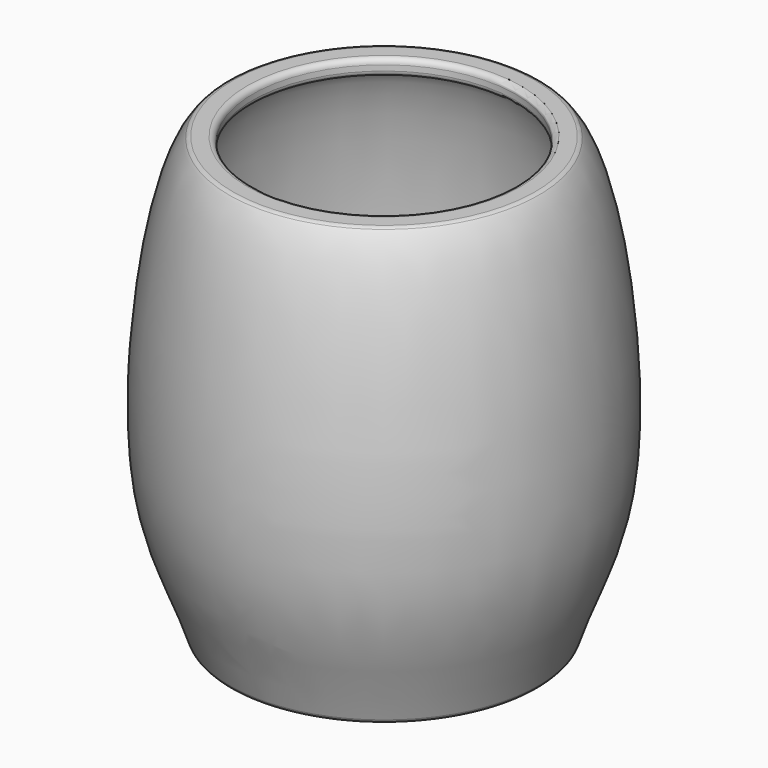
from build123d import *

# Parameters (mm, degrees)
F2_R     = 120
F3_DEPTH = 400.0010001
F4_R     = 5
F5_R     = 5


with BuildPart() as f1:
    # F0 (on Right) → F1 (revolve)
    with BuildSketch(Plane.YZ):
        with BuildLine():
            Line((-140, 0), (0, 0))
            Line((0, 0), (0, 15))
            Line((0, 15), (-130, 15))
            add(Edge.make_bspline(
                [(-130, 15), (-143.6055380442, 60.1826702343), (-181.9617475839, 101.3846869663), (-160.6694873838, 359.853444619), (-130, 385)],
                knots=[0, 0, 0, 0, 0.4046585791, 1, 1, 1, 1], degree=3))
            Line((-130, 385), (0, 385))
            Line((0, 385), (0, 400))
            Line((0, 400), (-140, 400))
            add(Edge.make_bspline(
                [(-140, 0), (-154.3680414708, 47.7148700464), (-203.9103962136, 114.6860306429), (-169.5011850388, 375.8113601932), (-140, 400)],
                knots=[0, 0, 0, 0, 0.4273371055, 1, 1, 1, 1], degree=3))
        make_face()
    revolve(axis=Axis((0, 0, 100), (0, 0, -1)))

    # F2 (on face) → F3 (cut, through all)
    with BuildSketch(Plane(origin=(0, 0, 0), x_dir=(1, 0, 0), z_dir=(0, 0, -1))):
        Circle(F2_R)
    extrude(amount=-F3_DEPTH, mode=Mode.SUBTRACT)

    # F4
    f4_edges = [f1.edges().sort_by_distance(p)[0] for p in [
        (-120, 0, 15),
        (-120, 0, 400),
        (-120, 0, 385),
        (0, 140, 0),
        (0, 140, 400),
        (-120, 0, 0),
    ]]
    fillet(f4_edges, radius=F4_R)

    # F5
    f5_edges = [f1.edges().sort_by_distance(p)[0] for p in [
        (0, 130, 15),
        (0, 130, 385),
    ]]
    fillet(f5_edges, radius=F5_R)


solid = f1.part
